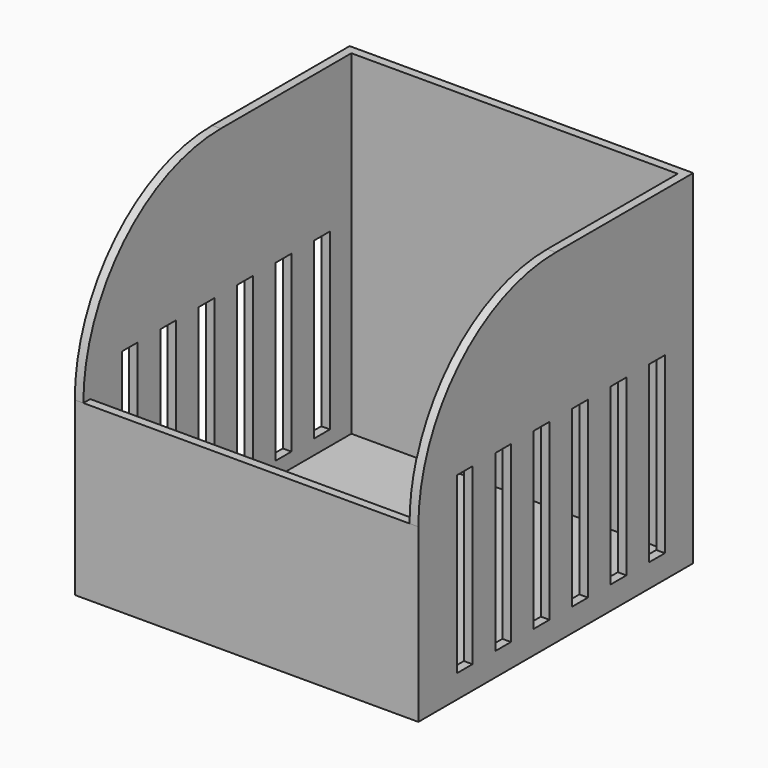
from build123d import *

# Parameters (mm, degrees)
F0_W     = 100
F0_H     = 100
F1_DEPTH = 100
F2_T     = -2.5
F3_W     = 94.9397633225
F3_H     = 2.5
F4_DEPTH = 50
F5_R     = 50
F6_W     = 5.7191289961
F6_H     = 50.7341860794
F7_DEPTH = 100.001


with BuildPart() as f1:
    # F0 (on Top) → F1 (new body)
    with BuildSketch(Plane.XY):
        with Locations((-8.5391569883, -0.5041474987)):
            Rectangle(F0_W, F0_H)
    extrude(amount=F1_DEPTH)

    # F2
    f2_openings = [f1.faces().sort_by_distance(p)[0] for p in [
        (-8.539157, -0.504147, 100),
    ]]
    offset(amount=F2_T, openings=f2_openings)

    # F3 (on face) → F4 (cut)
    with BuildSketch(Plane.XY.offset(100)):
        with Locations((-8.569275327, -49.2541474987)):
            Rectangle(F3_W, F3_H)
    extrude(amount=-F4_DEPTH, mode=Mode.SUBTRACT)

    # F5
    f5_edges = [f1.edges().sort_by_distance(p)[0] for p in [
        (-57.289157, -50.504147, 100),
        (40.180725, -50.504147, 100),
    ]]
    fillet(f5_edges, radius=F5_R)

    # F6 (on face) → F7 (cut, through all)
    with BuildSketch(Plane.YZ.offset(41.4608430117)):
        with Locations((-33.6690526456, 32.1479656268)):
            Rectangle(F6_W, F6_H)
        with Locations((-19.6690526456, 32.1479656268)):
            Rectangle(F6_W, F6_H)
        with Locations((-5.6690526456, 32.1479656268)):
            Rectangle(F6_W, F6_H)
        with Locations((8.3309473544, 32.1479656268)):
            Rectangle(F6_W, F6_H)
        with Locations((22.3309473544, 32.1479656268)):
            Rectangle(F6_W, F6_H)
        with Locations((36.3309473544, 32.1479656268)):
            Rectangle(F6_W, F6_H)
    extrude(amount=-F7_DEPTH, mode=Mode.SUBTRACT)


solid = f1.part
